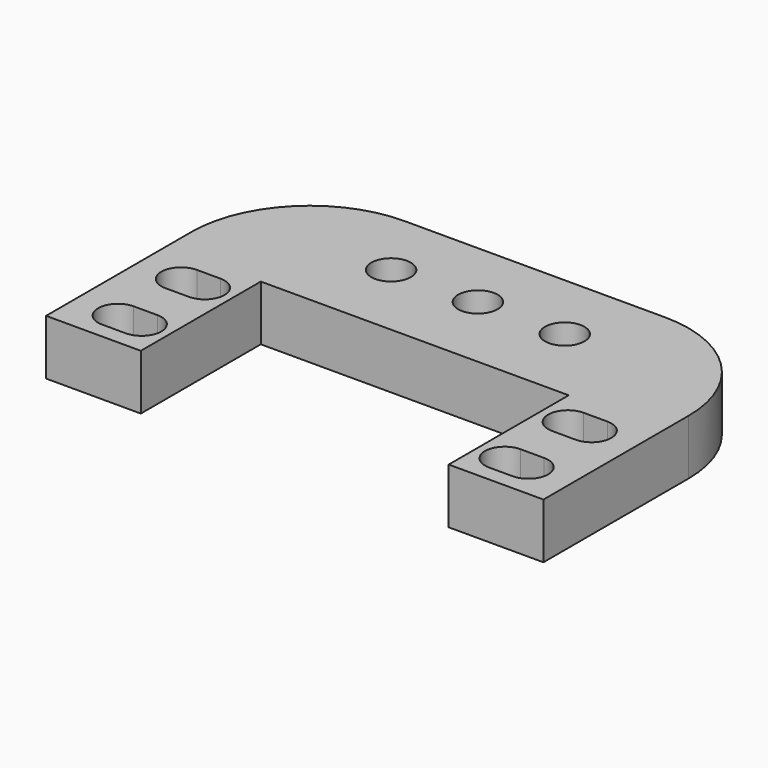
from build123d import *

# Parameters (mm, degrees)
SKETCH_R    = 2.5
PAD_DEPTH   = 7
FILLET_R    = 15
FILLET001_R = 15


with BuildPart() as part:
    # Sketch → Pad (new body)
    with BuildSketch(Plane.XY):
        Polygon((-31.5, 19), (31.5, 19), (31.5, -19), (19.5, -19), (19.5, 0), (-19.5, 0), (-19.5, -19), (-31.5, -19), align=None)
        with Locations((-11, 10)):
            Circle(SKETCH_R, mode=Mode.SUBTRACT)
        with Locations((0, 10)):
            Circle(SKETCH_R, mode=Mode.SUBTRACT)
        with Locations((11, 10)):
            Circle(SKETCH_R, mode=Mode.SUBTRACT)
        with BuildLine():
            ThreePointArc((-26, -2), (-28.5, -4.5), (-26, -7))
            Line((-26, -7), (-23, -7))
            ThreePointArc((-23, -7), (-20.5, -4.5), (-23, -2))
            Line((-23, -2), (-26, -2))
        make_face(mode=Mode.SUBTRACT)
        with BuildLine():
            ThreePointArc((-26, -12), (-28.5, -14.5), (-26, -17))
            Line((-26, -17), (-23, -17))
            ThreePointArc((-23, -17), (-20.5, -14.5), (-23, -12))
            Line((-23, -12), (-26, -12))
        make_face(mode=Mode.SUBTRACT)
        with BuildLine():
            ThreePointArc((23, -2), (20.5, -4.5), (23, -7))
            Line((23, -7), (26, -7))
            ThreePointArc((26, -7), (28.5, -4.5), (26, -2))
            Line((26, -2), (23, -2))
        make_face(mode=Mode.SUBTRACT)
        with BuildLine():
            ThreePointArc((23, -12), (20.5, -14.5), (23, -17))
            Line((23, -17), (26, -17))
            ThreePointArc((26, -17), (28.5, -14.5), (26, -12))
            Line((26, -12), (23, -12))
        make_face(mode=Mode.SUBTRACT)
    extrude(amount=PAD_DEPTH)

    # Fillet
    fillet_edges = [part.edges().sort_by_distance(p)[0] for p in [
        (-31.5, 19, 3.5),
    ]]
    fillet(fillet_edges, radius=FILLET_R)

    # Fillet001
    fillet001_edges = [part.edges().sort_by_distance(p)[0] for p in [
        (31.5, 19, 3.5),
    ]]
    fillet(fillet001_edges, radius=FILLET001_R)


solid = part.part
